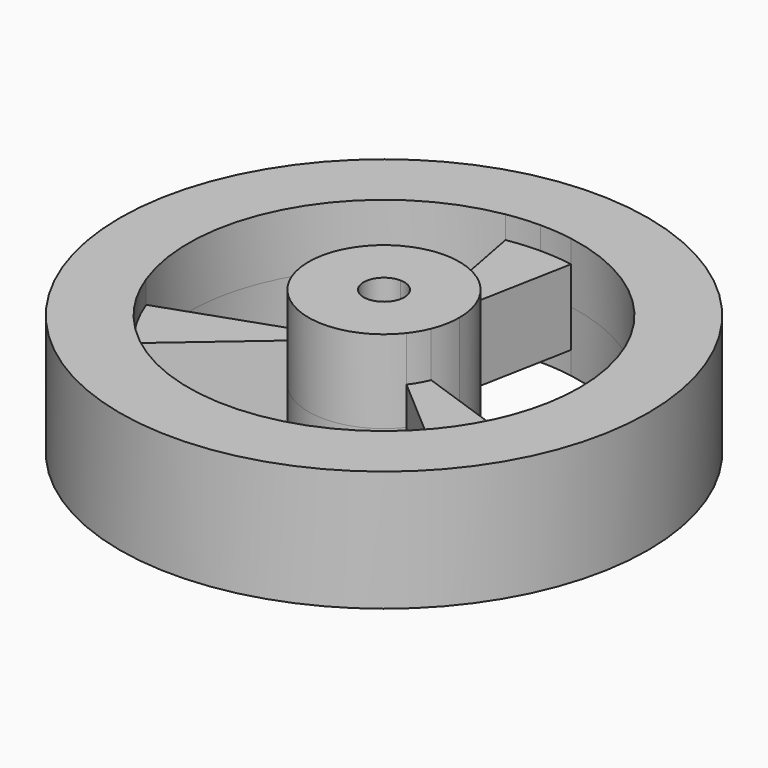
from build123d import *

# Parameters (mm, degrees)
F1_DEPTH = 5.5
F2_DEPTH = 2.5
F0_R     = 17.5
F3_DEPTH = 4


with BuildPart() as f1:
    # F0 (on Top) → F1 (new body, symmetric)
    with BuildSketch(Plane.XY):
        with BuildLine():
            ThreePointArc((-1.1691342951, -0.675), (-1.1691342951, 0.675), (0, 1.35))
            Line((0, 1.35), (-0.6846800298, 4.9528994798))
            ThreePointArc((-0.6846800298, 4.9528994798), (-4.3301270189, 2.5), (-4.6316767868, -1.8834994406))
            Line((-4.6316767868, -1.8834994406), (-1.1691342951, -0.675))
        make_face()
        with BuildLine():
            Line((-3.946996757, -3.0694000392), (-1.1691342951, -0.675))
            Line((-1.1691342951, -0.675), (-4.6316767868, -1.8834994406))
            ThreePointArc((-4.6316767868, -1.8834994406), (-4.3301270189, -2.5), (-3.946996757, -3.0694000392))
        make_face()
        with BuildLine():
            ThreePointArc((-3.946996757, -3.0694000392), (0, -5), (3.946996757, -3.0694000392))
            Line((3.946996757, -3.0694000392), (1.1691342951, -0.675))
            ThreePointArc((1.1691342951, -0.675), (0, -1.35), (-1.1691342951, -0.675))
            Line((-1.1691342951, -0.675), (-3.946996757, -3.0694000392))
        make_face()
        with BuildLine():
            ThreePointArc((5, 0), (3.7698408553, 3.284554753), (0.6846800298, 4.9528994798))
            Line((0.6846800298, 4.9528994798), (0, 1.35))
            ThreePointArc((0, 1.35), (0.9545941546, 0.9545941546), (1.35, 0))
            ThreePointArc((1.35, 0), (1.3039998655, -0.3494057109), (1.1691342951, -0.675))
            Line((1.1691342951, -0.675), (4.6316767868, -1.8834994406))
            ThreePointArc((4.6316767868, -1.8834994406), (4.9070553254, -0.9595874286), (5, 0))
        make_face()
        with BuildLine():
            ThreePointArc((3.946996757, -3.0694000392), (4.3301270189, -2.5), (4.6316767868, -1.8834994406))
            Line((4.6316767868, -1.8834994406), (1.1691342951, -0.675))
            Line((1.1691342951, -0.675), (3.946996757, -3.0694000392))
        make_face()
        with BuildLine():
            Line((0, 1.35), (0.6846800298, 4.9528994798))
            ThreePointArc((0.6846800298, 4.9528994798), (0.3431490938, 4.9882109718), (0, 5))
            Line((0, 5), (0, 1.35))
        make_face()
        with BuildLine():
            Line((0, 1.35), (0, 5))
            ThreePointArc((0, 5), (-0.3431490938, 4.9882109718), (-0.6846800298, 4.9528994798))
            Line((-0.6846800298, 4.9528994798), (0, 1.35))
        make_face()
    extrude(amount=F1_DEPTH, both=True)

    # F0 (on Top) → F2 (join, symmetric)
    with BuildSketch(Plane.XY):
        with BuildLine():
            Line((0.6846800298, 4.9528994798), (2.1712380216, 12.775413329))
            ThreePointArc((2.1712380216, 12.775413329), (1.089476247, 12.9127263497), (0, 12.9586056455))
            Line((0, 12.9586056455), (0, 5))
            ThreePointArc((0, 5), (0.3431490938, 4.9882109718), (0.6846800298, 4.9528994798))
        make_face()
        with BuildLine():
            Line((0, 5), (0, 12.9586056455))
            ThreePointArc((0, 12.9586056455), (-1.089476247, 12.9127263497), (-2.1712380216, 12.775413329))
            Line((-2.1712380216, 12.775413329), (-0.6846800298, 4.9528994798))
            ThreePointArc((-0.6846800298, 4.9528994798), (-0.3431490938, 4.9882109718), (0, 5))
        make_face()
        with BuildLine():
            ThreePointArc((-12.1494514976, -4.5073593802), (-11.2224816866, -6.4793028227), (-9.978213476, -8.2680539489))
            Line((-9.978213476, -8.2680539489), (-3.946996757, -3.0694000392))
            ThreePointArc((-3.946996757, -3.0694000392), (-4.3301270189, -2.5), (-4.6316767868, -1.8834994406))
            Line((-4.6316767868, -1.8834994406), (-12.1494514976, -4.5073593802))
        make_face()
        with BuildLine():
            ThreePointArc((9.978213476, -8.2680539489), (11.2224816866, -6.4793028227), (12.1494514976, -4.5073593802))
            Line((12.1494514976, -4.5073593802), (4.6316767868, -1.8834994406))
            ThreePointArc((4.6316767868, -1.8834994406), (4.3301270189, -2.5), (3.946996757, -3.0694000392))
            Line((3.946996757, -3.0694000392), (9.978213476, -8.2680539489))
        make_face()
    extrude(amount=F2_DEPTH, both=True)

    # F0 (on Top) → F3 (join, symmetric)
    with BuildSketch(Plane.XY):
        Circle(F0_R)
        with BuildLine():
            ThreePointArc((2.1712380216, 12.775413329), (9.9010524077, 8.3603003233), (12.9586056455, 0))
            ThreePointArc((12.9586056455, 0), (12.7547130709, -2.2897062594), (12.1494514976, -4.5073593802))
            ThreePointArc((12.1494514976, -4.5073593802), (11.2224816866, -6.4793028227), (9.978213476, -8.2680539489))
            ThreePointArc((9.978213476, -8.2680539489), (0, -12.9586056455), (-9.978213476, -8.2680539489))
            ThreePointArc((-9.978213476, -8.2680539489), (-11.2224816866, -6.4793028227), (-12.1494514976, -4.5073593802))
            ThreePointArc((-12.1494514976, -4.5073593802), (-11.2224816866, 6.4793028227), (-2.1712380216, 12.775413329))
            ThreePointArc((-2.1712380216, 12.775413329), (-1.089476247, 12.9127263497), (0, 12.9586056455))
            ThreePointArc((0, 12.9586056455), (1.089476247, 12.9127263497), (2.1712380216, 12.775413329))
        make_face(mode=Mode.SUBTRACT)
    extrude(amount=F3_DEPTH, both=True)


solid = f1.part
